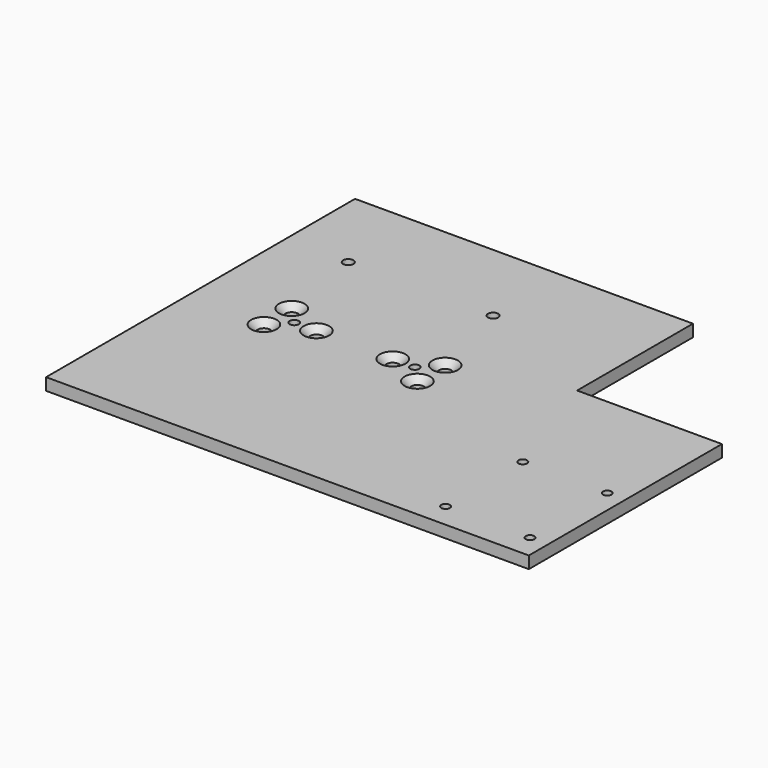
from build123d import *

# Parameters (mm, degrees)
F0_W           = 127
F0_H           = 3.175
F1_DEPTH       = 50.8
F3_D           = 3.3
F3_CSINK_D     = 6.72
F3_CSINK_ANGLE = 90
F5_D           = 2.4
F6_W           = 38.1
F6_H           = 38.1
F7_DEPTH       = 3.176
F9_D           = 2.2606
F11_D          = 2.7051


with BuildPart() as f1:
    # F0 (on Front) → F1 (new body, symmetric)
    with BuildSketch(Plane.XZ):
        with Locations((-63.5, 1.5875)):
            Rectangle(F0_W, F0_H)
    extrude(amount=F1_DEPTH, both=True)

    # F3 (through all)
    with Locations(Plane.XY.offset(3.175)):
        with Locations((-66.294, 4.572), (-66.294, -4.572), (-76.454, 0), (-96.52, 0), (-106.68, 4.572), (-106.68, -4.572)):
            CounterSinkHole(F3_D / 2, F3_CSINK_D / 2, counter_sink_angle=F3_CSINK_ANGLE)

    # F5 (through all)
    with Locations(Plane.XY.offset(3.175)):
        with Locations((-102.362, 0), (-70.612, 0)):
            Hole(F5_D / 2)

    # F6 (on face) → F7 (cut, through all)
    with BuildSketch(Plane.XY.offset(3.175)):
        with Locations((-19.05, 31.75)):
            Rectangle(F6_W, F6_H)
    extrude(amount=-F7_DEPTH, mode=Mode.SUBTRACT)

    # F9 (through all)
    with Locations(Plane.XY.offset(3.175)):
        with Locations((-26.9875, -44.45), (-26.9875, -19.05), (-4.7625, -19.05), (-4.7625, -44.45)):
            Hole(F9_D / 2)

    # F11 (through all)
    with Locations(Plane.XY.offset(3.175)):
        with Locations((-110.49, 27.94), (-72.39, 27.94)):
            Hole(F11_D / 2)


solid = f1.part
